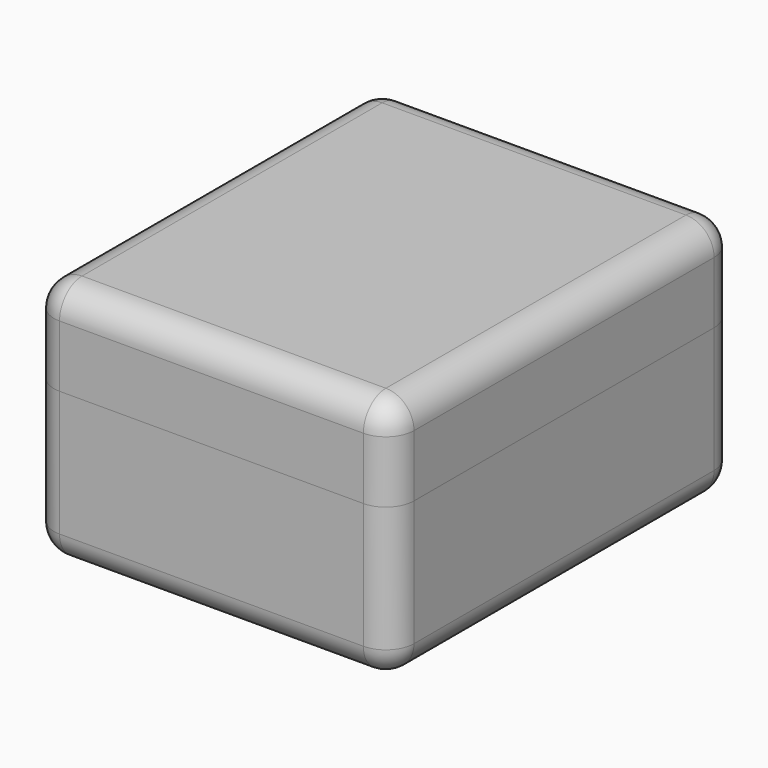
from build123d import *

# Parameters (mm, degrees)
PAD_DEPTH      = 30
BOX005_W       = 150
BOX005_H       = 170
BOX005_DEPTH   = 49
PRISM001_DEPTH = 40
PRISM_DEPTH    = 40
PAD001_DEPTH   = 120
BOX004_W       = 62
BOX004_H       = 21
BOX004_DEPTH   = 5
FILLET_1_R     = 10
FILLET_2_R     = 1
BOX_W          = 192
BOX_H          = 230
BOX_DEPTH      = 82
FILLET001_R    = 1
FILLET002_R    = 15
PAD004_DEPTH   = 3
PAD003_DEPTH   = 45
FILLET003_R    = 15
FILLET004_R    = 15
BOX006_W       = 192
BOX006_H       = 230
BOX006_DEPTH   = 48
FILLET005_1_R  = 15
FILLET005_2_R  = 1
PAD007_DEPTH   = 100
PAD005_DEPTH   = 150
CHAMFER_SIZE   = 1.9


with BuildPart() as body:
    # Sketch → Pad (new body)
    with BuildSketch(Plane.XY):
        with BuildLine():
            Line((18, 0), (168, 0))
            Line((168, 0), (168, 5))
            ThreePointArc((168, 5), (180.727922, 10.272078), (186, 23))
            Line((186, 157.875538), (186, 23))
            ThreePointArc((186, 157.875538), (183.351999, 168.120904), (176.071244, 175.800101))
            Line((185.374435, 193.169798), (176.071244, 175.800101))
            ThreePointArc((185.374435, 193.169798), (182.776831, 202.298171), (173.313858, 201.572307))
            Line((163.668625, 183.563995), (173.313858, 201.572307))
            Line((163.668625, 183.563995), (157, 183.563995))
            Line((157, 214), (157, 183.563995))
            ThreePointArc((157, 214), (154.071068, 221.071068), (147, 224))
            Line((47, 224), (147, 224))
            ThreePointArc((47, 224), (39.928932, 221.071068), (37, 214))
            Line((37, 183.468779), (37, 214))
            Line((23.834705, 183.459689), (37, 183.468779))
            Line((15.236041, 200.165965), (23.834705, 183.459689))
            ThreePointArc((15.236041, 200.165965), (5.384322, 202.766463), (2.031372, 193.144785))
            Line((10.716892, 176.269757), (2.031372, 193.144785))
            ThreePointArc((10.716892, 176.269757), (2.874632, 168.519774), (0, 157.875538))
            Line((0, 157.875538), (0, 23))
            ThreePointArc((0, 23), (5.272078, 10.272078), (18, 5))
            Line((18, 0), (18, 5))
        make_face()
    extrude(amount=PAD_DEPTH)


with BuildPart() as body_1:
    # Body placement: moved
    add(body.part.moved(Location((3, 3, 52))))


with BuildPart() as box005:
    # Box005 → Box005 (new body)
    with BuildSketch(Plane(origin=(21, 15, 3), x_dir=(1, 0, 0), z_dir=(0, 0, 1))):
        with Locations((75, 85)):
            Rectangle(BOX005_W, BOX005_H)
    extrude(amount=BOX005_DEPTH)


with BuildPart() as prism001:
    # Prism001 → Prism001 (new body)
    with BuildSketch(Plane(origin=(130.85, 17.57, 57.39), x_dir=(0, 1, 0), z_dir=(1, 0, 0))):
        Polygon((20, 0), (-10, 17.320508), (-10, -17.320508), align=None)
    extrude(amount=PRISM001_DEPTH)


with BuildPart() as prism:
    # Prism → Prism (new body)
    with BuildSketch(Plane(origin=(21.1, 17.57, 57.3923), x_dir=(0, 1, 0), z_dir=(1, 0, 0))):
        Polygon((20, 0), (-10, 17.320508), (-10, -17.320508), align=None)
    extrude(amount=PRISM_DEPTH)


with BuildPart() as body001:
    # Sketch001 → Pad001 (new body)
    with BuildSketch(Plane.YZ):
        with BuildLine():
            ThreePointArc((12.225897, 7.137285), (29.085857, 0.567198), (40, 15))
            Line((54, 15), (40, 15))
            Line((54, 52), (54, 15))
            Line((54, 52), (0, 52))
            Line((0, 52), (0, 27))
            Line((0, 27), (12.225897, 7.137285))
        make_face()
    extrude(amount=PAD001_DEPTH)


with BuildPart() as body001_1:
    # Body001 placement: moved
    add(body001.part.moved(Location((40, 173, 3))))


with BuildPart() as fusion001:
    # Box004 → Box004 (new body)
    with BuildSketch(Plane(origin=(65, 3, 48), x_dir=(1, 0, 0), z_dir=(0, 0, 1))):
        with Locations((31, 10.5)):
            Rectangle(BOX004_W, BOX004_H)
    extrude(amount=BOX004_DEPTH)

    # Fusion: union Box005, Prism001, Prism, Body001
    add(box005.part)
    add(prism001.part)
    add(prism.part)
    add(body001_1.part)

    # Fillet 1
    fillet_1_edges = [fusion001.edges().sort_by_distance(p)[0] for p in [
        (40, 227, 36.5),
        (40, 173, 53.5),
        (160, 227, 36.5),
    ]]
    fillet(fillet_1_edges, radius=FILLET_1_R)

    # Fillet 2
    fillet_2_edges = [fusion001.edges().sort_by_distance(p)[0] for p in [
        (65, 9, 48),
        (65, 3, 50.5),
        (96, 15, 3),
        (127, 9, 48),
        (96, 3, 48),
        (127, 3, 50.5),
        (171, 185, 27.5),
        (21, 185, 27.5),
        (96, 185, 3),
        (40, 202.085857, 3.567198),
        (160, 185.112948, 10.320786),
        (171, 100, 3),
        (170.85, 32.902123, 54.695),
        (130.85, 32.902123, 54.695),
        (150.85, 37.57, 57.39),
        (130.85, 22.57, 66.050254),
        (61.1, 32.900131, 54.69615),
        (21.1, 32.900131, 54.69615),
        (41.1, 37.57, 57.3923),
        (21.1, 7.57, 57.3923),
        (21.1, 22.57, 66.052554),
        (21, 100, 3),
    ]]
    fillet(fillet_2_edges, radius=FILLET_2_R)

    # Fusion001: union Body
    add(body_1.part)


with BuildPart() as maincasebottom:
    # Box → Box (new body)
    with BuildSketch(Plane.XY):
        with Locations((96, 115)):
            Rectangle(BOX_W, BOX_H)
    extrude(amount=BOX_DEPTH)

    # Cut: cut Fusion001
    add(fusion001.part, mode=Mode.SUBTRACT)

    # Fillet001
    fillet001_edges = [maincasebottom.edges().sort_by_distance(p)[0] for p in [
        (13.716892, 179.269757, 67),
        (179.071244, 178.800101, 67),
        (166.668625, 186.563995, 67),
        (26.834705, 186.459689, 67),
    ]]
    fillet(fillet001_edges, radius=FILLET001_R)

    # Fillet002
    fillet002_edges = [maincasebottom.edges().sort_by_distance(p)[0] for p in [
        (0, 0, 41),
        (0, 230, 41),
        (0, 115, 0),
        (96, 230, 0),
        (192, 230, 41),
        (96, 0, 0),
        (192, 0, 41),
        (192, 115, 0),
    ]]
    fillet(fillet002_edges, radius=FILLET002_R)


with BuildPart() as leftstand:
    # Sketch004 → Pad004 (new body)
    with BuildSketch(Plane.YZ):
        with BuildLine():
            Line((88, 4), (88, 21))
            Line((88, 21), (3, 21))
            Line((3, 21), (3, 0))
            Line((3, 0), (25, 0))
            ThreePointArc((88, 4), (56.461494, 2.606473), (25, 0))
        make_face()
    extrude(amount=PAD004_DEPTH)


with BuildPart() as leftstand_1:
    # Body004 placement: moved
    add(leftstand.part.moved(Location((40, 0, 106))))


with BuildPart() as fusion002:
    # Body005 base: copy of LeftStand
    add(leftstand_1.part)


with BuildPart() as fusion002_1:
    # Body005 placement: moved
    add(fusion002.part.moved(Location((108, 0, 0))))

    # Fusion002: union LeftStand
    add(leftstand_1.part)


with BuildPart() as fillet004:
    # Sketch003 → Pad003 (new body)
    with BuildSketch(Plane.XY):
        with BuildLine():
            Line((18, 0), (168, 0))
            Line((168, 0), (168, 5))
            ThreePointArc((168, 5), (180.727922, 10.272078), (186, 23))
            Line((186, 206), (186, 23))
            ThreePointArc((186, 206), (180.727922, 218.727922), (168, 224))
            Line((18, 224), (168, 224))
            ThreePointArc((18, 224), (5.272078, 218.727922), (0, 206))
            Line((0, 206), (0, 23))
            ThreePointArc((0, 23), (5.272078, 10.272078), (18, 5))
            Line((18, 0), (18, 5))
        make_face()
    extrude(amount=PAD003_DEPTH)


with BuildPart() as fillet004_1:
    # Body003 placement: moved
    add(fillet004.part.moved(Location((3, 3, 82))))

    # Cut001: cut Fusion002
    add(fusion002_1.part, mode=Mode.SUBTRACT)

    # Fillet003
    fillet003_edges = [fillet004_1.edges().sort_by_distance(p)[0] for p in [
        (8.272078, 221.727922, 127),
        (96, 227, 127),
        (3, 117.5, 127),
        (183.727922, 221.727922, 127),
        (189, 117.5, 127),
        (183.727922, 13.272078, 127),
        (95.5, 3, 127),
        (8.272078, 13.272078, 127),
    ]]
    fillet(fillet003_edges, radius=FILLET003_R)

    # Fillet004
    fillet004_edges = [fillet004_1.edges().sort_by_distance(p)[0] for p in [
        (161, 3, 127),
        (30.5, 3, 127),
    ]]
    fillet(fillet004_edges, radius=FILLET004_R)


with BuildPart() as fillet005:
    # Box006 → Box006 (new body)
    with BuildSketch(Plane.XY.offset(82)):
        with Locations((96, 115)):
            Rectangle(BOX006_W, BOX006_H)
    extrude(amount=BOX006_DEPTH)

    # Cut002: cut Fillet004
    add(fillet004_1.part, mode=Mode.SUBTRACT)

    # Fillet005 1
    fillet005_1_edges = [fillet005.edges().sort_by_distance(p)[0] for p in [
        (0, 0, 106),
        (0, 115, 130),
        (0, 230, 106),
        (192, 0, 106),
        (96, 0, 130),
        (96, 230, 130),
        (192, 115, 130),
        (192, 230, 106),
    ]]
    fillet(fillet005_1_edges, radius=FILLET005_1_R)

    # Fillet005 2
    fillet005_2_edges = [fillet005.edges().sort_by_distance(p)[0] for p in [
        (171, 8, 97),
        (21, 8, 97),
        (151, 88, 118.5),
        (151, 14, 106),
        (148, 14, 106),
        (148, 88, 118.5),
        (43, 88, 118.5),
        (43, 14, 106),
        (40, 14, 106),
        (40, 88, 118.5),
        (149.5, 88, 110),
        (41.5, 88, 110),
    ]]
    fillet(fillet005_2_edges, radius=FILLET005_2_R)


with BuildPart() as obj1:
    # Sketch007 → Pad007 (new body)
    with BuildSketch(Plane.YZ):
        Polygon((0, 0), (2, 12), (2, 2), (1, 0), align=None)
    extrude(amount=PAD007_DEPTH)


with BuildPart() as obj1_1:
    # Body008 placement: moved
    add(obj1.part.moved(Location((50, 225, 80))))


with BuildPart() as lid:
    # Sketch005 → Pad005 (new body)
    with BuildSketch(Plane.YZ):
        Polygon((0, 12), (0, 2), (1, 0), (2, 0), align=None)
    extrude(amount=PAD005_DEPTH)


with BuildPart() as lid_1:
    # Body006 placement: moved
    add(lid.part.moved(Location((21, 3, 80))))

    # Fusion003: union Fillet005, obj1
    add(fillet005.part)
    add(obj1_1.part)

    # Chamfer
    chamfer_edges = [lid_1.edges().sort_by_distance(p)[0] for p in [
        (21, 4.5, 80),
        (171, 4.5, 80),
        (50, 225.5, 80),
        (150, 225.5, 80),
    ]]
    chamfer(chamfer_edges, length=CHAMFER_SIZE)


solid = Compound([maincasebottom.part, lid_1.part])
